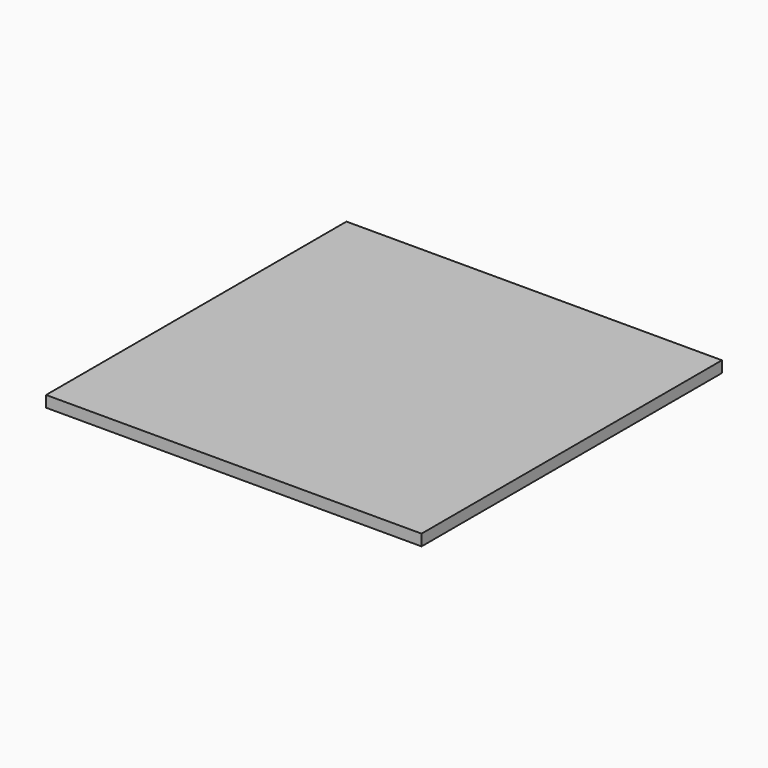
from build123d import *

# Parameters (mm, degrees)
SKETCH_W  = 100
SKETCH_H  = 100
PAD_DEPTH = 3


with BuildPart() as part:
    # Sketch → Pad (new body)
    with BuildSketch(Plane.XY):
        Rectangle(SKETCH_W, SKETCH_H)
    extrude(amount=PAD_DEPTH)


solid = part.part
